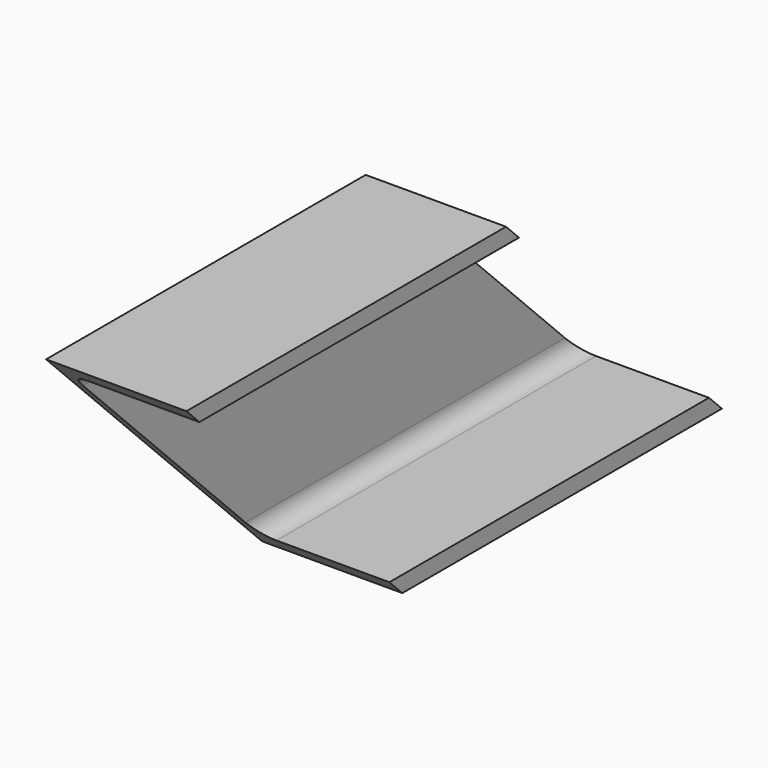
from build123d import *

# Parameters (mm, degrees)
F1_DEPTH = 310
F3_DEPTH = 65.001


with BuildPart() as f1:
    # F0 (on Front) → F1 (new body)
    with BuildSketch(Plane.XZ):
        with BuildLine():
            Line((-25.16784, 62.5), (-25.16784, -62.5))
            Line((-25.16784, -62.5), (39.83216, -62.5))
            Line((39.83216, -62.5), (39.83216, -55))
            Line((39.83216, -55), (-12.46784, -55))
            ThreePointArc((-12.46784, -55), (-18.124695, -52.656854), (-20.46784, -47))
            Line((-20.46784, -47), (-20.46784, 47))
            ThreePointArc((-20.46784, 47), (-18.124695, 52.656854), (-12.46784, 55))
            Line((-12.46784, 55), (39.83216, 55))
            Line((39.83216, 55), (39.83216, 62.5))
            Line((39.83216, 62.5), (-25.16784, 62.5))
        make_face()
    extrude(amount=F1_DEPTH)

    # F2 (on face) → F3 (cut, through all)
    with BuildSketch(Plane(origin=(-25.16784, 0, 0), x_dir=(0, -1, 0), z_dir=(-1, 0, 0))):
        Polygon((125, 62.5), (0, 62.5), (0, -62.5), align=None)
        Polygon((310, -62.5), (310, 62.5), (185, -62.5), align=None)
    extrude(amount=-F3_DEPTH, mode=Mode.SUBTRACT)


solid = f1.part
